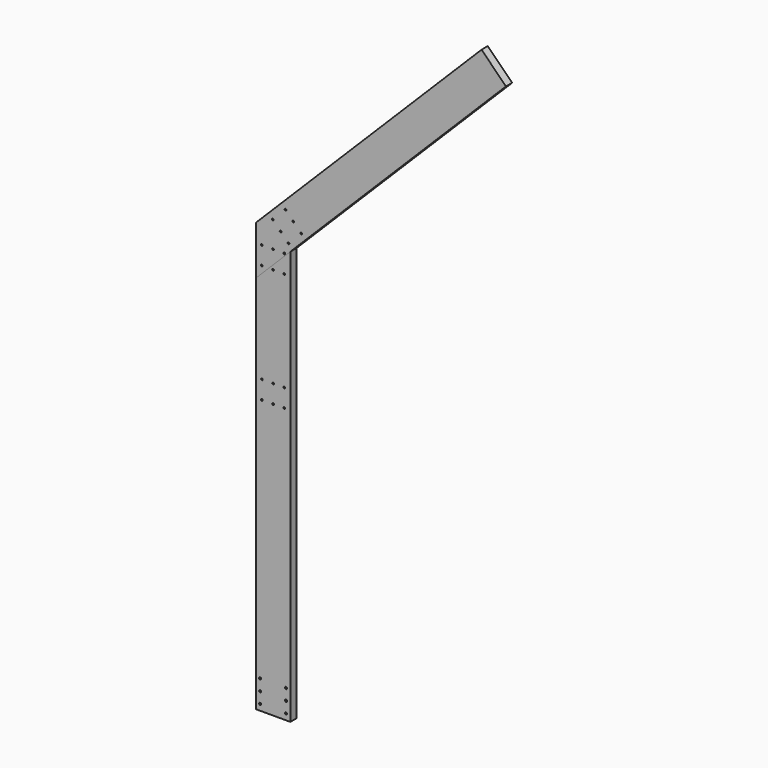
from build123d import *

# Parameters (mm, degrees)
F0_W     = 200
F0_H     = 540
F0_H_2   = 45
F0_H_3   = 5
F0_W_2   = 45
F0_H_4   = 200
F0_W_3   = 42.8196878433
F0_R     = 6
F0_R_2   = 6.1672595584
F0_W_4   = 8
F0_W_5   = 42
F0_W_6   = 5
F0_H_5   = 42
F0_H_6   = 8
F0_R_3   = 5
F1_DEPTH = 45
F2_DEPTH = 45


with BuildPart() as f1:
    # F0 (on Front) → F1 (new body)
    with BuildSketch(Plane.XZ):
        with Locations((-5487.0751142502, -1401.4159052541)):
            Rectangle(F0_W, F0_H)
        with Locations((-5487.0751142502, -1693.9159052541)):
            Rectangle(F0_W, F0_H_2)
        with Locations((-5487.0751142502, -1718.9159052541)):
            Rectangle(F0_W, F0_H_3)
        with Locations((-5487.0751142502, -1743.9159052541)):
            Rectangle(F0_W, F0_H_2)
        with Locations((-5487.0751142502, -1768.9159052541)):
            Rectangle(F0_W, F0_H_3)
        Polygon((-5392.0751142502, -1816.4159052541), (-5387.0751142502, -1816.4159052541), (-5387.0751142502, -1771.4159052541), (-5587.0751142502, -1771.4159052541), (-5587.0751142502, -1816.4159052541), (-5582.8948020935, -1816.4159052541), (-5540.0751142502, -1816.4159052541), (-5532.0751142502, -1816.4159052541), (-5487.0751142502, -1816.4159052541), (-5442.0751142502, -1816.4159052541), (-5434.0751142502, -1816.4159052541), align=None)
        with Locations((-5509.5751142502, -1916.4159052541)):
            Rectangle(F0_W_2, F0_H_4)
        with Locations((-5561.4849581718, -1916.4159052541)):
            Rectangle(F0_W_3, F0_H_4)
        with Locations((-5562.0751142502, -1981.4159052541)):
            Circle(F0_R, mode=Mode.SUBTRACT)
        with Locations((-5562.0751142502, -1916.4159052541)):
            Circle(F0_R, mode=Mode.SUBTRACT)
        with Locations((-5562.0751142502, -1851.4159052541)):
            Circle(F0_R_2, mode=Mode.SUBTRACT)
        with Locations((-5536.0751142502, -1916.4159052541)):
            Rectangle(F0_W_4, F0_H_4)
        Polygon((-5582.8948020935, -1816.4159052541), (-5587.0751142502, -1816.4159052541), (-5587.0751142502, -1971.4159052541), (-5587.0751142502, -2016.4159052541), (-5582.8948020935, -2016.4159052541), align=None)
        with Locations((-5464.5751142502, -1916.4159052541)):
            Rectangle(F0_W_2, F0_H_4)
        with Locations((-5438.0751142502, -1916.4159052541)):
            Rectangle(F0_W_4, F0_H_4)
        with Locations((-5413.0751142502, -1916.4159052541)):
            Rectangle(F0_W_5, F0_H_4)
        with Locations((-5412.0751142502, -1981.4159052541)):
            Circle(F0_R, mode=Mode.SUBTRACT)
        with Locations((-5412.0751142502, -1916.4159052541)):
            Circle(F0_R, mode=Mode.SUBTRACT)
        with Locations((-5412.0751142502, -1851.4159052541)):
            Circle(F0_R_2, mode=Mode.SUBTRACT)
        with Locations((-5389.5751142502, -1916.4159052541)):
            Rectangle(F0_W_6, F0_H_4)
        with Locations((-5487.0751142502, -1110.4159052541)):
            Rectangle(F0_W, F0_H_5)
        with Locations((-5487.0751142502, -1085.4159052541)):
            Rectangle(F0_W, F0_H_6)
        with Locations((-5487.0751142502, -1058.9159052541)):
            Rectangle(F0_W, F0_H_2)
        with Locations((-5487.0751142502, -1032.4159052541)):
            Rectangle(F0_W, F0_H_6)
        with Locations((-5487.0751142502, -1007.4159052541)):
            Rectangle(F0_W, F0_H_5)
        with Locations((-5487.0751142502, -716.4159052541)):
            Rectangle(F0_W, F0_H)
        with Locations((-5487.0751142502, -423.9159052541)):
            Rectangle(F0_W, F0_H_2)
        with Locations((-5552.0751142502, -426.4159052541)):
            Circle(F0_R_3, mode=Mode.SUBTRACT)
        with Locations((-5487.0751142502, -426.4159052541)):
            Circle(F0_R_3, mode=Mode.SUBTRACT)
        with Locations((-5422.0751142502, -426.4159052541)):
            Circle(F0_R_3, mode=Mode.SUBTRACT)
        with Locations((-5487.0751142502, -398.9159052541)):
            Rectangle(F0_W, F0_H_3)
        with Locations((-5487.0751142502, -373.9159052541)):
            Rectangle(F0_W, F0_H_2)
        with Locations((-5487.0751142502, -348.9159052541)):
            Rectangle(F0_W, F0_H_3)
        with Locations((-5487.0751142502, -323.9159052541)):
            Rectangle(F0_W, F0_H_2)
        with Locations((-5552.0751142502, -321.4159052541)):
            Circle(F0_R_3, mode=Mode.SUBTRACT)
        with Locations((-5487.0751142502, -321.4159052541)):
            Circle(F0_R_3, mode=Mode.SUBTRACT)
        with Locations((-5422.0751142502, -321.4159052541)):
            Circle(F0_R_3, mode=Mode.SUBTRACT)
        Polygon((-5387.0751142502, -301.4159052541), (-5387.0751142502, 238.5840947459), (-5397.0751142502, 238.5840947459), (-5532.0751142502, 238.5840947459), (-5587.0751142502, 183.5840947459), (-5587.0751142502, -301.4159052541), align=None)
        Polygon((-5387.0751142502, 288.5840947459), (-5387.0751142502, 333.5840947459), (-5397.0751142502, 333.5840947459), (-5437.0751142502, 333.5840947459), (-5482.0751142502, 288.5840947459), (-5397.0751142502, 288.5840947459), align=None)
        Polygon((-5532.0751142502, 238.5840947459), (-5397.0751142502, 238.5840947459), (-5397.0751142502, 283.5840947459), (-5487.0751142502, 283.5840947459), align=None)
        with Locations((-5487.0751142502, 258.5840947459)):
            Circle(F0_R_3, mode=Mode.SUBTRACT)
        with Locations((-5422.0751142502, 258.5840947459)):
            Circle(F0_R_3, mode=Mode.SUBTRACT)
        Polygon((-5387.0751142502, 238.5840947459), (-5387.0751142502, 288.5840947459), (-5397.0751142502, 288.5840947459), (-5397.0751142502, 283.5840947459), (-5397.0751142502, 238.5840947459), align=None)
        Polygon((-5397.0751142502, 283.5840947459), (-5397.0751142502, 288.5840947459), (-5482.0751142502, 288.5840947459), (-5487.0751142502, 283.5840947459), align=None)
        Polygon((-5397.0751142502, 338.5840947459), (-5397.0751142502, 373.5840947459), (-5432.0751142502, 338.5840947459), align=None)
        Polygon((-5437.0751142502, 333.5840947459), (-5397.0751142502, 333.5840947459), (-5397.0751142502, 338.5840947459), (-5432.0751142502, 338.5840947459), align=None)
        Polygon((-5387.0751142502, 333.5840947459), (-5387.0751142502, 383.5840947459), (-5397.0751142502, 373.5840947459), (-5397.0751142502, 338.5840947459), (-5397.0751142502, 333.5840947459), align=None)
    extrude(amount=-F1_DEPTH)


with BuildPart() as f2:
    # F0 (on Front) → F2 (new body)
    with BuildSketch(Plane.XZ):
        Polygon((-5587.0751142502, 183.5840947459), (-5532.0751142502, 238.5840947459), (-5577.0751142502, 238.5840947459), (-5587.0751142502, 238.5840947459), align=None)
        Polygon((-5577.0751142502, 238.5840947459), (-5532.0751142502, 238.5840947459), (-5487.0751142502, 283.5840947459), (-5577.0751142502, 283.5840947459), align=None)
        with Locations((-5552.0751142502, 258.5840947459)):
            Circle(F0_R_3, mode=Mode.SUBTRACT)
        Polygon((-5577.0751142502, 283.5840947459), (-5577.0751142502, 288.5840947459), (-5587.0751142502, 288.5840947459), (-5587.0751142502, 238.5840947459), (-5577.0751142502, 238.5840947459), align=None)
        Polygon((-5487.0751142502, 283.5840947459), (-5482.0751142502, 288.5840947459), (-5577.0751142502, 288.5840947459), (-5577.0751142502, 283.5840947459), align=None)
        Polygon((-5482.0751142502, 288.5840947459), (-5437.0751142502, 333.5840947459), (-5577.0751142502, 333.5840947459), (-5587.0751142502, 333.5840947459), (-5587.0751142502, 288.5840947459), (-5577.0751142502, 288.5840947459), align=None)
        Polygon((-5437.0751142502, 333.5840947459), (-5432.0751142502, 338.5840947459), (-5577.0751142502, 338.5840947459), (-5577.0751142502, 333.5840947459), align=None)
        Polygon((-5432.0751142502, 338.5840947459), (-5397.0751142502, 373.5840947459), (-5397.0751142502, 383.5840947459), (-5577.0751142502, 383.5840947459), (-5577.0751142502, 338.5840947459), align=None)
        with Locations((-5552.0751142502, 363.5840947459)):
            Circle(F0_R_3, mode=Mode.SUBTRACT)
        with Locations((-5487.0751142502, 363.5840947459)):
            Circle(F0_R_3, mode=Mode.SUBTRACT)
        with Locations((-5422.0751142502, 363.5840947459)):
            Circle(F0_R_3, mode=Mode.SUBTRACT)
        Polygon((-5577.0751142502, 338.5840947459), (-5577.0751142502, 383.5840947459), (-5587.0751142502, 383.5840947459), (-5587.0751142502, 333.5840947459), (-5577.0751142502, 333.5840947459), align=None)
        Polygon((-5397.0751142502, 383.5840947459), (-5387.0751142502, 383.5840947459), (-5394.146182062, 390.6551625577), (-5521.4254026756, 517.9343831713), (-5528.4964704875, 525.0054509832), (-5587.0751142502, 466.4268072205), (-5587.0751142502, 383.5840947459), (-5577.0751142502, 383.5840947459), align=None)
        Polygon((-5394.1461820621, 390.6551625577), (-5387.0751142502, 397.7262303696), (-5387.0751142502, 447.2237050527), (-5489.6055975222, 549.7541883247), (-5521.4254026756, 517.9343831713), align=None)
        with Locations((-5397.681715968, 422.4749677111)):
            Circle(F0_R_3, mode=Mode.SUBTRACT)
        with Locations((-5443.6436567451, 468.4369084883)):
            Circle(F0_R_3, mode=Mode.SUBTRACT)
        with Locations((-5489.6055975222, 514.3988492654)):
            Circle(F0_R_3, mode=Mode.SUBTRACT)
        Polygon((-5387.0751142502, 447.2237050527), (-5387.0751142502, 397.7262303696), (-5362.3263769087, 422.4749677111), align=None)
        Polygon((-5387.0751142502, 397.7262303696), (-5387.0751142502, 383.5840947459), (-5351.7197751909, 418.9394338052), (-5358.7908430027, 426.0105016171), (-5362.3263769087, 422.4749677111), align=None)
        Polygon((-5394.146182062, 390.6551625577), (-5387.0751142502, 383.5840947459), (-5387.0751142502, 397.7262303696), align=None)
        Polygon((-5397.0751142502, 373.5840947459), (-5387.0751142502, 383.5840947459), (-5397.0751142502, 383.5840947459), align=None)
        Polygon((-5528.4964704875, 525.0054509832), (-5521.4254026756, 517.9343831713), (-5489.6055975222, 549.7541883247), (-5486.0700636163, 553.2897222306), (-5493.1411314282, 560.3607900425), align=None)
        Polygon((-5489.6055975222, 549.7541883247), (-5387.0751142502, 447.2237050527), (-5387.0751142502, 454.2947728645), (-5486.0700636163, 553.2897222306), align=None)
        Polygon((-5486.0700636163, 553.2897222306), (-5387.0751142502, 454.2947728645), (-5387.0751142502, 517.9343831713), (-5454.2502584629, 585.109527384), (-5461.3213262748, 592.1805951959), (-5493.1411314282, 560.3607900425), align=None)
        Polygon((-5358.7908430027, 426.0105016171), (-5351.7197751909, 418.9394338052), (-5319.8999700375, 450.7592389586), (-5326.9710378493, 457.8303067705), (-5387.0751142502, 517.9343831713), (-5387.0751142502, 454.2947728645), align=None)
        Polygon((-5362.3263769087, 422.4749677111), (-5358.7908430027, 426.0105016171), (-5387.0751142502, 454.2947728645), (-5387.0751142502, 447.2237050527), align=None)
        Polygon((-5387.0751142502, 517.9343831713), (-5326.9710378493, 457.8303067705), (-5323.4355039434, 461.3658406764), (-5387.0751142502, 525.0054509832), align=None)
        Polygon((-5326.9710378493, 457.8303067705), (-5319.8999700375, 450.7592389586), (-5284.5446309781, 486.1145780179), (-5291.61569879, 493.1856458298), (-5323.4355039434, 461.3658406764), align=None)
        Polygon((-5323.4355039434, 461.3658406764), (-5291.61569879, 493.1856458298), (-5387.0751142502, 588.64506129), (-5387.0751142502, 525.0054509832), align=None)
        with Locations((-5323.4355039434, 496.7211797357)):
            Circle(F0_R_3, mode=Mode.SUBTRACT)
        with Locations((-5369.3974447205, 542.6831205128)):
            Circle(F0_R_3, mode=Mode.SUBTRACT)
        Polygon((-5387.0751142502, 525.0054509832), (-5387.0751142502, 588.64506129), (-5418.8949194036, 620.4648664434), (-5450.714724557, 588.64506129), align=None)
        with Locations((-5415.3593854976, 588.64506129)):
            Circle(F0_R_3, mode=Mode.SUBTRACT)
        Polygon((-5454.2502584629, 585.109527384), (-5387.0751142502, 517.9343831713), (-5387.0751142502, 525.0054509832), (-5450.714724557, 588.64506129), align=None)
        Polygon((-5461.3213262748, 592.1805951959), (-5454.2502584629, 585.109527384), (-5450.714724557, 588.64506129), (-5418.8949194036, 620.4648664434), (-5425.9659872154, 627.5359342552), align=None)
        Polygon((-5418.8949194036, 620.4648664434), (-5387.0751142502, 588.64506129), (-5387.0751142502, 666.4268072205), (-5425.9659872154, 627.5359342552), align=None)
        Polygon((-5291.61569879, 493.1856458298), (-5284.5446309781, 486.1145780179), (-4813.6115147079, 957.0476942882), (-4955.0328709452, 1098.4690505255), (-5387.0751142502, 666.4268072205), (-5387.0751142502, 588.64506129), align=None)
        Polygon((-4955.0328709452, 1098.4690505255), (-4813.6115147079, 957.0476942882), (-4783.9130298981, 986.746179098), (-4925.3343861354, 1128.1675353353), align=None)
        Polygon((-4925.3343861354, 1128.1675353353), (-4783.9130298981, 986.746179098), (-4778.2561756486, 992.4030333475), (-4919.6775318859, 1133.8243895848), align=None)
        Polygon((-4919.6775318859, 1133.8243895848), (-4778.2561756486, 992.4030333475), (-4746.4363704952, 1024.2228385009), (-4887.8577267325, 1165.6441947382), align=None)
        Polygon((-4887.8577267325, 1165.6441947382), (-4746.4363704952, 1024.2228385009), (-4740.7795162457, 1029.8796927504), (-4882.200872483, 1171.3010489877), align=None)
        Polygon((-4740.7795162457, 1029.8796927504), (-4711.0810314358, 1059.5781775602), (-4852.5023876732, 1200.9995337975), (-4882.200872483, 1171.3010489877), align=None)
        Polygon((-4711.0810314358, 1059.5781775602), (-4239.6055975222, 1531.0536114738), (-4381.0269537595, 1672.4749677111), (-4852.5023876732, 1200.9995337975), align=None)
        Polygon((-4239.6055975222, 1531.0536114738), (-4207.7857923688, 1562.8734166272), (-4349.2071486061, 1704.2947728645), (-4381.0269537595, 1672.4749677111), align=None)
        Polygon((-4207.7857923688, 1562.8734166272), (-4204.2502584629, 1566.4089505332), (-4345.6716147002, 1707.8303067705), (-4349.2071486061, 1704.2947728645), align=None)
        Polygon((-4204.2502584629, 1566.4089505332), (-4172.4304533095, 1598.2287556865), (-4313.8518095468, 1739.6501119239), (-4345.6716147002, 1707.8303067705), align=None)
        Polygon((-4172.4304533095, 1598.2287556865), (-4168.8949194036, 1601.7642895925), (-4310.3162756409, 1743.1856458298), (-4313.8518095468, 1739.6501119239), align=None)
        Polygon((-4168.8949194036, 1601.7642895925), (-4137.0751142502, 1633.5840947459), (-4278.4964704875, 1775.0054509832), (-4310.3162756409, 1743.1856458298), align=None)
    extrude(amount=-F2_DEPTH)


solid = Compound([f1.part, f2.part])
